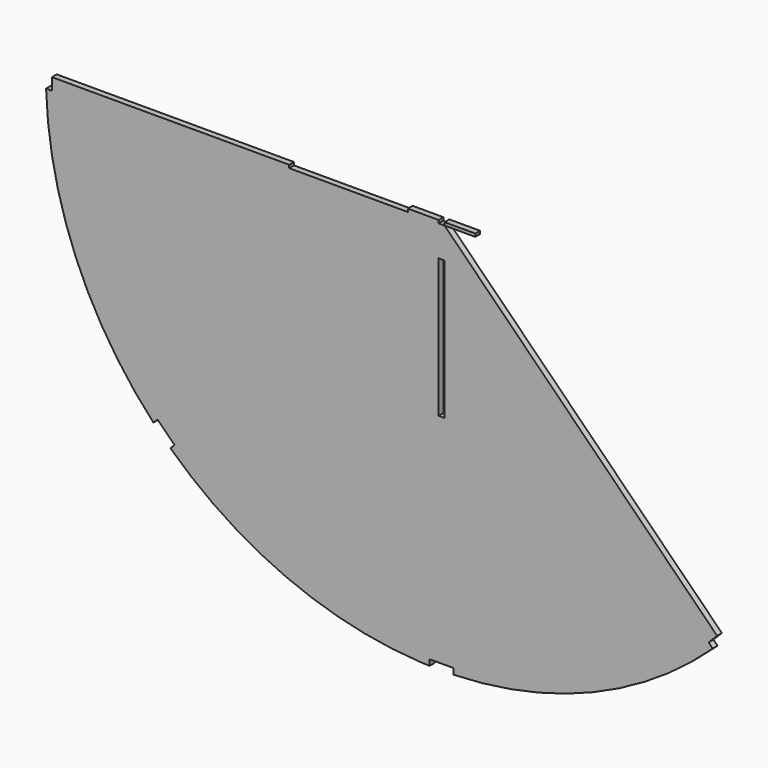
from build123d import *

# Parameters (mm, degrees)
F1_DEPTH = 1.5875


with BuildPart() as f1:
    # F0 (on Front) → F1 (new body)
    with BuildSketch(Plane.XZ):
        with BuildLine():
            ThreePointArc((3.175, -104.7268828907), (40.0956566261, -96.7994780189), (71.8080250343, -76.2981530948))
            Line((71.8080250343, -76.2981530948), (70.7195169534, -75.209645014))
            Line((70.7195169534, -75.209645014), (72.9645809837, -72.9645809837))
            Line((72.9645809837, -72.9645809837), (6.3257014034, -6.3257014034))
            ThreePointArc((6.3257014034, -6.3257014034), (3.7870944313, -8.1047462797), (0.79375, -8.9106092624))
            Line((0.79375, -8.9106092624), (0.79375, -45.6423796713))
            Line((0.79375, -45.6423796713), (-0.79375, -45.6423796713))
            Line((-0.79375, -45.6423796713), (-0.79375, -8.9106092624))
            ThreePointArc((-0.79375, -8.9106092624), (-3.7870944313, -8.1047462797), (-6.3257014034, -6.3257014034))
            Line((-6.3257014034, -6.3257014034), (-72.9645809837, -72.9645809837))
            Line((-72.9645809837, -72.9645809837), (-70.7195169534, -75.209645014))
            Line((-70.7195169534, -75.209645014), (-71.8080250343, -76.2981530948))
            ThreePointArc((-71.8080250343, -76.2981530948), (-41.2892262179, -96.2964195769), (-5.7630954006, -104.616381874))
            ThreePointArc((-5.7630954006, -104.616381874), (-4.4693892162, -104.679631185), (-3.175, -104.7268828907))
            Line((-3.175, -104.7268828907), (-3.175, -103.1748))
            Line((-3.175, -103.1748), (0, -103.1748))
            Line((0, -103.1748), (3.175, -103.1748))
            Line((3.175, -103.1748), (3.175, -104.7268828907))
        make_face()
        with BuildLine():
            Line((-72.9645809837, -72.9645809837), (-6.3257014034, -6.3257014034))
            ThreePointArc((-6.3257014034, -6.3257014034), (-8.1047462797, -3.7870944313), (-8.9106092624, -0.79375))
            Line((-8.9106092624, -0.79375), (-40.3446033597, -0.79375))
            Line((-40.3446033597, -0.79375), (-40.3446033597, 0))
            Line((-40.3446033597, 0), (-103.1875, 0))
            Line((-103.1875, 0), (-103.1875, -3.175))
            Line((-103.1875, -3.175), (-104.7268828907, -3.175))
            ThreePointArc((-104.7268828907, -3.175), (-96.7994780189, -40.0956566261), (-76.2981530948, -71.8080250343))
            Line((-76.2981530948, -71.8080250343), (-75.209645014, -70.7195169534))
            Line((-75.209645014, -70.7195169534), (-72.9645809837, -72.9645809837))
        make_face()
        with BuildLine():
            Line((-6.3257014034, -6.3257014034), (-0.79375, -0.79375))
            Line((-0.79375, -0.79375), (-8.9106092624, -0.79375))
            ThreePointArc((-8.9106092624, -0.79375), (-8.1047462797, -3.7870944313), (-6.3257014034, -6.3257014034))
        make_face()
        with BuildLine():
            Line((-0.79375, -8.9106092624), (-0.79375, -0.79375))
            Line((-0.79375, -0.79375), (-6.3257014034, -6.3257014034))
            ThreePointArc((-6.3257014034, -6.3257014034), (-3.7870944313, -8.1047462797), (-0.79375, -8.9106092624))
        make_face()
        with BuildLine():
            ThreePointArc((0.79375, -8.9106092624), (3.7870944313, -8.1047462797), (6.3257014034, -6.3257014034))
            Line((6.3257014034, -6.3257014034), (0.79375, -0.79375))
            Line((0.79375, -0.79375), (0.79375, -8.9106092624))
        make_face()
        with BuildLine():
            Line((0.79375, -8.9106092624), (0.79375, -0.79375))
            Line((0.79375, -0.79375), (-0.79375, -0.79375))
            Line((-0.79375, -0.79375), (-0.79375, -8.9106092624))
            ThreePointArc((-0.79375, -8.9106092624), (0, -8.9458927162), (0.79375, -8.9106092624))
        make_face()
        with BuildLine():
            Line((-8.9106092624, -0.79375), (-0.79375, -0.79375))
            Line((-0.79375, -0.79375), (-0.79375, 0))
            Line((-0.79375, 0), (-8.9458927162, 0))
            ThreePointArc((-8.9458927162, 0), (-8.9370674997, -0.397266908), (-8.9106092624, -0.79375))
        make_face()
    extrude(amount=F1_DEPTH)


with BuildPart() as f1b:
    # F0 (on Front) → F1, piece 2 (new body)
    with BuildSketch(Plane.XZ):
        with BuildLine():
            ThreePointArc((8.9106092624, -0.79375), (8.9370674997, -0.397266908), (8.9458927162, 0))
            Line((8.9458927162, 0), (0.79375, 0))
            Line((0.79375, 0), (0.79375, -0.79375))
            Line((0.79375, -0.79375), (8.9106092624, -0.79375))
        make_face()
    extrude(amount=F1_DEPTH)


solid = Compound([f1.part, f1b.part])
